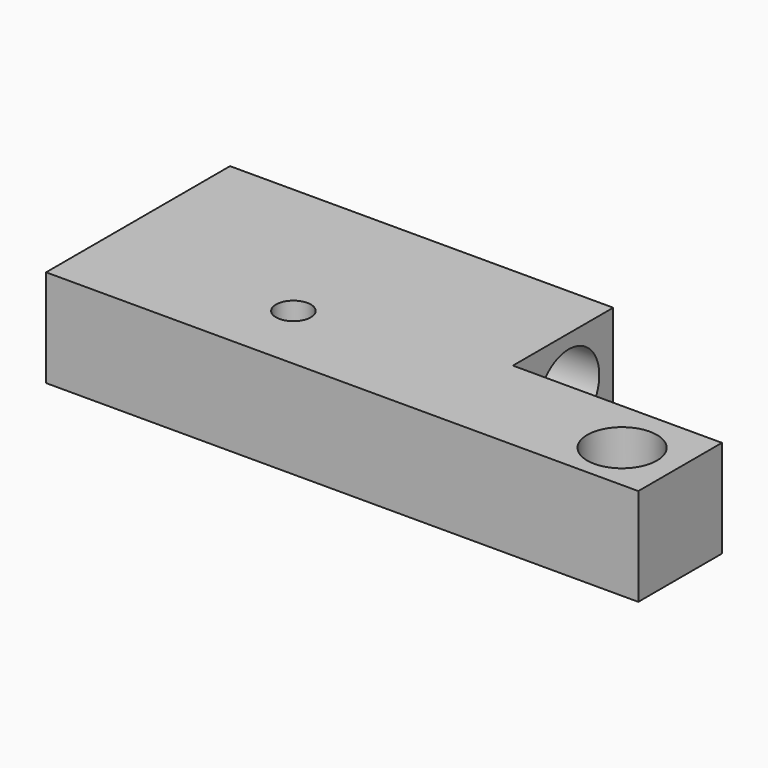
from build123d import *

# Parameters (mm, degrees)
F0_W     = 30
F0_H     = 15
F1_DEPTH = 14
F3_R     = 2.5
F4_DEPTH = 14.001
F5_R     = 5
F6_DEPTH = 14.001
F7_W     = 55
F7_H     = 17
F8_DEPTH = 14.001
F2_R     = 5.5
F9_DEPTH = 85.001


with BuildPart() as f1:
    # F0 (on Top) → F1 (new body)
    with BuildSketch(Plane.XY):
        Polygon((27.5, 25), (-27.5, 25), (-27.5, -25), (27.5, -25), (27.5, -10), align=None)
        with Locations((42.5, -17.5)):
            Rectangle(F0_W, F0_H)
    extrude(amount=F1_DEPTH)

    # F3 (on face) → F4 (cut, through all)
    with BuildSketch(Plane.XY.offset(14)):
        with Locations((0, -15)):
            Circle(F3_R)
    extrude(amount=-F4_DEPTH, mode=Mode.SUBTRACT)

    # F5 (on face) → F6 (cut, through all)
    with BuildSketch(Plane.XY.offset(14)):
        with Locations((49.511172, -17.922652)):
            Circle(F5_R)
    extrude(amount=-F6_DEPTH, mode=Mode.SUBTRACT)

    # F7 (on face) → F8 (cut, through all)
    with BuildSketch(Plane(origin=(0, 0, 0), x_dir=(1, 0, 0), z_dir=(0, 0, -1))):
        with Locations((0, -16.5)):
            Rectangle(F7_W, F7_H)
    extrude(amount=-F8_DEPTH, mode=Mode.SUBTRACT)

    # F2 (on face) → F9 (cut, through all)
    with BuildSketch(Plane(origin=(-27.5, 0, 0), x_dir=(0, -1, 0), z_dir=(-1, 0, 0))):
        with Locations((0, 6.5)):
            Circle(F2_R)
    extrude(amount=-F9_DEPTH, mode=Mode.SUBTRACT)


solid = f1.part
